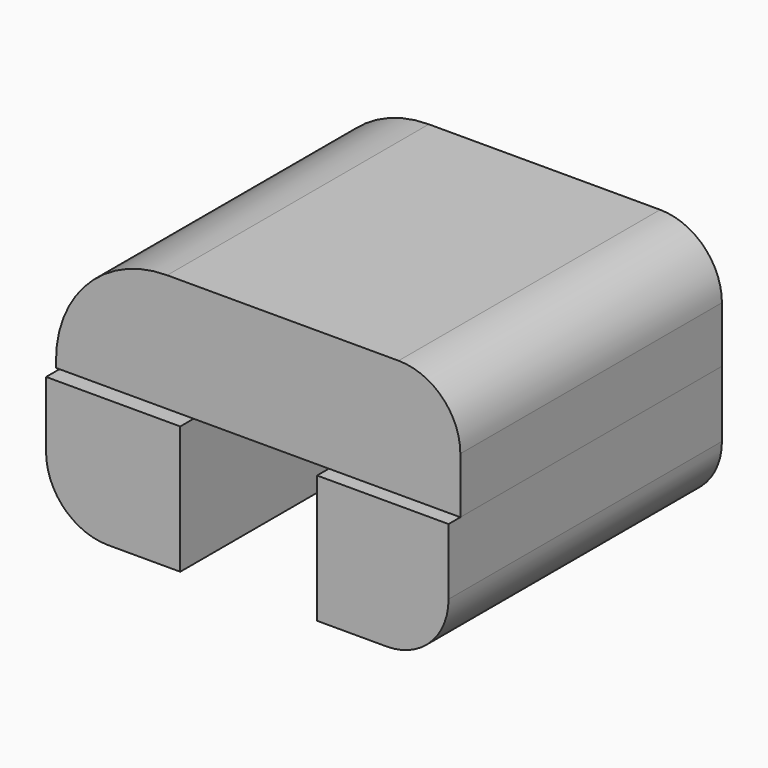
from build123d import *

# Parameters (mm, degrees)
F0_W     = 26.215993
F0_H     = 66.764804
F0_W_2   = 25.690524
F0_H_2   = 66.778887
F1_DEPTH = 25
F2_W     = 79.016809
F2_H     = 63.892803
F3_DEPTH = 23
F4_R     = 21.727922
F5_R     = 12.071068
F5_2_R   = 12.071068


with BuildPart() as f1:
    # F0 (on Top) → F1 (new body)
    with BuildSketch(Plane.XY):
        with Locations((-39.562472, -8.34906)):
            Rectangle(F0_W, F0_H)
        with Locations((12.819124, -7.953069)):
            Rectangle(F0_W_2, F0_H_2)
    extrude(amount=F1_DEPTH)

    # F5#2
    f5_2_edges = [f1.edges().sort_by_distance(p)[0] for p in [
        (-52.670468, -8.34906, 0),
        (25.664386, -7.953069, 0),
    ]]
    fillet(f5_2_edges, radius=F5_2_R)


with BuildPart() as f3:
    # F2 (on face) → F3 (new body)
    with BuildSketch(Plane.XY.offset(25)):
        with Locations((-13.844018, -6.510028)):
            Rectangle(F2_W, F2_H)
    extrude(amount=F3_DEPTH)

    # F4
    f4_edges = [f3.edges().sort_by_distance(p)[0] for p in [
        (-53.352423, -6.510027, 48),
    ]]
    fillet(f4_edges, radius=F4_R)

    # F5
    f5_edges = [f3.edges().sort_by_distance(p)[0] for p in [
        (25.664386, -6.510027, 48),
    ]]
    fillet(f5_edges, radius=F5_R)


solid = Compound([f1.part, f3.part])
